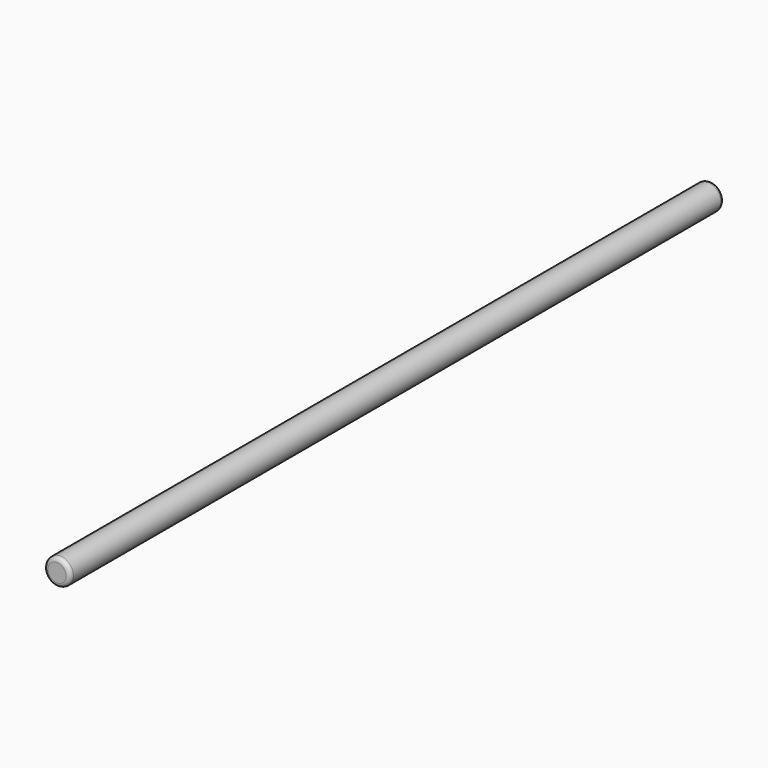
from build123d import *

# Parameters (mm, degrees)
SKETCH002_R              = 3.2
PAD001_DEPTH             = 200
FILLET_R                 = 1
FILLET001_R              = 1
CLONE003_PLACEMENT_ANGLE = 90


with BuildPart() as part:
    # Sketch002 (on DatumPlane) → Pad001 (new body)
    with BuildSketch(Plane(origin=(0, -40, 70), x_dir=(1, 0, 0), z_dir=(0, -1, 0))):
        with Locations((20, -50)):
            Circle(SKETCH002_R)
    extrude(amount=-PAD001_DEPTH)

    # Fillet
    fillet_edges = [part.edges().sort_by_distance(p)[0] for p in [
        (16.8, -40, 20),
    ]]
    fillet(fillet_edges, radius=FILLET_R)

    # Fillet001
    fillet001_edges = [part.edges().sort_by_distance(p)[0] for p in [
        (16.8, 160, 20),
    ]]
    fillet(fillet001_edges, radius=FILLET001_R)


with BuildPart() as part_1:
    # Clone003 placement: moved
    add(part.part.rotate(Axis((0, 0, 0), (0, -1, 0)), CLONE003_PLACEMENT_ANGLE))


solid = part_1.part
